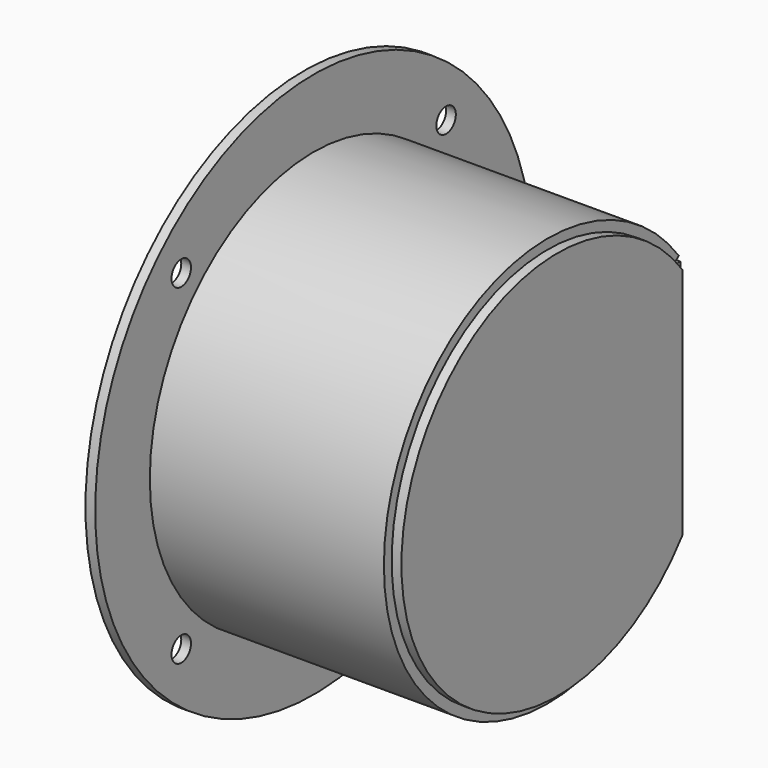
from build123d import *

# Parameters (mm, degrees)
F0_R     = 88.9
F0_R_2   = 3.96875
F1_DEPTH = 3.175
F3_DEPTH = 3.176
F5_DEPTH = 76.2
F6_W     = 3.175
F6_H     = 76.2
F7_DEPTH = 76.2
F9_DEPTH = 3.175


with BuildPart() as f1:
    # F0 (on Right) → F1 (new body)
    with BuildSketch(Plane.YZ):
        Circle(F0_R)
        with Locations((-53.881537, -53.881537)):
            Circle(F0_R_2, mode=Mode.SUBTRACT)
        with Locations((53.881537, -53.881537)):
            Circle(F0_R_2, mode=Mode.SUBTRACT)
        with Locations((-53.881537, 53.881537)):
            Circle(F0_R_2, mode=Mode.SUBTRACT)
        with Locations((53.881537, 53.881537)):
            Circle(F0_R_2, mode=Mode.SUBTRACT)
    extrude(amount=F1_DEPTH)

    # F2 (on face) → F3 (cut, through all)
    with BuildSketch(Plane.YZ.offset(3.175)):
        with BuildLine():
            Line((50.8, -38.1), (50.8, 38.1))
            ThreePointArc((50.8, 38.1), (-63.5, 0), (50.8, -38.1))
        make_face()
    extrude(amount=-F3_DEPTH, mode=Mode.SUBTRACT)


with BuildPart() as f5:
    # F4 (on face) → F5 (new body)
    with BuildSketch(Plane.YZ.offset(3.175)):
        with BuildLine():
            ThreePointArc((50.8, -38.1), (-63.5, 0), (50.8, 38.1))
            Line((50.8, 38.1), (53.34, 40.005))
            ThreePointArc((53.34, 40.005), (-66.675, 0), (53.34, -40.005))
            Line((53.34, -40.005), (50.8, -38.1))
        make_face()
    extrude(amount=F5_DEPTH)


with BuildPart() as f7:
    # F6 (on face) → F7 (new body)
    with BuildSketch(Plane.YZ.offset(3.175)):
        with Locations((52.3875, 0)):
            Rectangle(F6_W, F6_H)
    extrude(amount=F7_DEPTH)


with BuildPart() as f9:
    # F8 (on face) → F9 (new body)
    with BuildSketch(Plane.YZ.offset(79.375)):
        with BuildLine():
            Line((50.8, -38.1), (50.8, 38.1))
            ThreePointArc((50.8, 38.1), (-63.5, 0), (50.8, -38.1))
        make_face()
    extrude(amount=F9_DEPTH)


solid = Compound([f1.part, f5.part, f7.part, f9.part])
